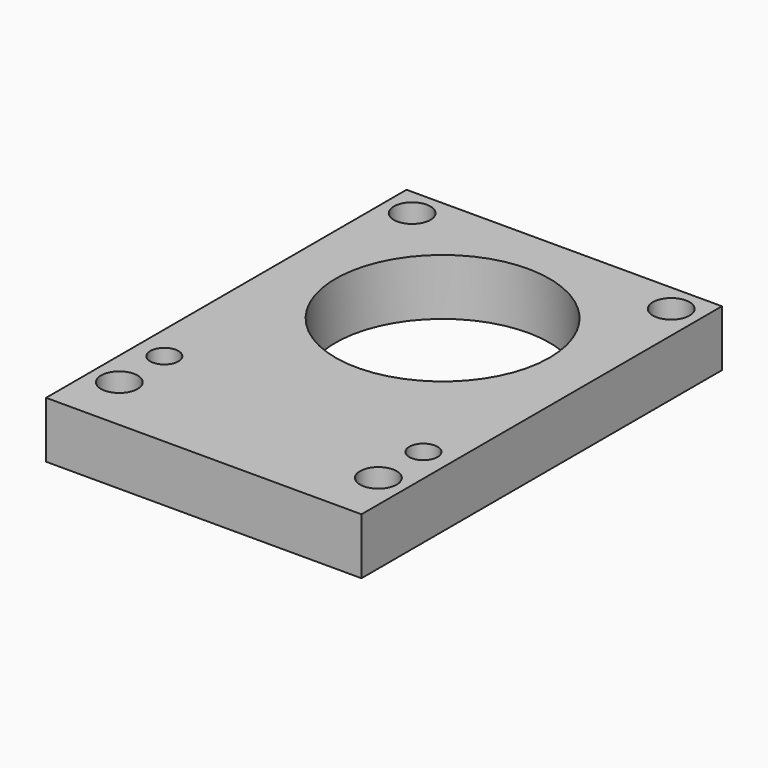
from build123d import *

# Parameters (mm, degrees)
F0_W     = 56
F0_H     = 80
F1_DEPTH = 10
F2_R     = 19
F3_DEPTH = 10.001
F4_R     = 3.25
F5_DEPTH = 10.001
F6_R     = 2.5
F7_DEPTH = 10.001


with BuildPart() as f1:
    # F0 (on Top) → F1 (new body)
    with BuildSketch(Plane.XY):
        with Locations((0, -13)):
            Rectangle(F0_W, F0_H)
    extrude(amount=F1_DEPTH)

    # F2 (on face) → F3 (cut, through all)
    with BuildSketch(Plane.XY.offset(10)):
        Circle(F2_R)
    extrude(amount=-F3_DEPTH, mode=Mode.SUBTRACT)

    # F4 (on face) → F5 (cut, through all)
    with BuildSketch(Plane.XY.offset(10)):
        with Locations((-23, 22)):
            Circle(F4_R)
        with Locations((-23, -43)):
            Circle(F4_R)
        with Locations((23, 22)):
            Circle(F4_R)
        with Locations((23, -43)):
            Circle(F4_R)
    extrude(amount=-F5_DEPTH, mode=Mode.SUBTRACT)

    # F6 (on face) → F7 (cut, through all)
    with BuildSketch(Plane.XY.offset(10)):
        with Locations((-23, -33)):
            Circle(F6_R)
        with Locations((23, -33)):
            Circle(F6_R)
    extrude(amount=-F7_DEPTH, mode=Mode.SUBTRACT)


solid = f1.part
